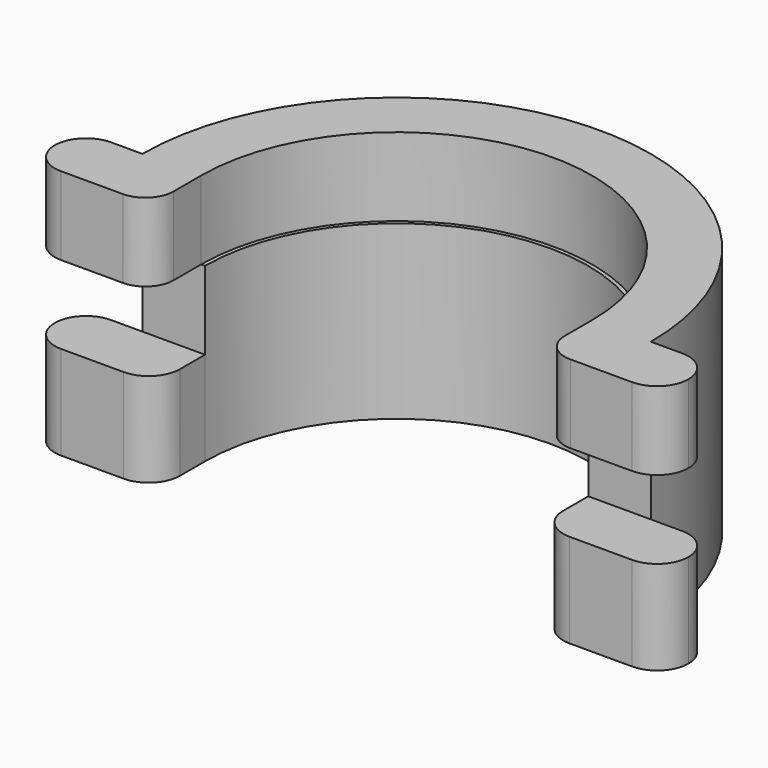
from build123d import *

# Parameters (mm, degrees)
F1_DEPTH = 27.94
F2_DEPTH = 15.24
F4_DEPTH = 12.7


with BuildPart() as f1:
    # F0 (on Top) → F1 (new body)
    with BuildSketch(Plane.XY):
        with BuildLine():
            ThreePointArc((-31.115, 0), (0, 31.115), (31.115, 0))
            Line((31.115, 0), (41.275, 0))
            ThreePointArc((41.275, 0), (0, 41.275), (-41.275, 0))
            Line((-41.275, 0), (-31.115, 0))
        make_face()
    extrude(amount=F1_DEPTH)

    # F0 (on Top) → F2 (join)
    with BuildSketch(Plane.XY):
        with BuildLine():
            ThreePointArc((-40.005, -10.16), (-40.9562693614, -5.1195336702), (-41.275, 0))
            Line((-41.275, 0), (-46.355, 0))
            ThreePointArc((-46.355, 0), (-49.9471024484, -1.4878975516), (-51.435, -5.08))
            ThreePointArc((-51.435, -5.08), (-49.9471024484, -8.6721024484), (-46.355, -10.16))
            Line((-46.355, -10.16), (-40.005, -10.16))
        make_face()
        with BuildLine():
            Line((-31.115, -5.08), (-31.115, 0))
            Line((-31.115, 0), (-41.275, 0))
            ThreePointArc((-41.275, 0), (-40.9562693614, -5.1195336702), (-40.005, -10.16))
            Line((-40.005, -10.16), (-36.195, -10.16))
            ThreePointArc((-36.195, -10.16), (-32.6028975516, -8.6721024484), (-31.115, -5.08))
        make_face()
        with BuildLine():
            Line((41.275, 0), (31.115, 0))
            Line((31.115, 0), (31.115, -5.08))
            ThreePointArc((31.115, -5.08), (32.6028975516, -8.6721024484), (36.195, -10.16))
            Line((36.195, -10.16), (40.005, -10.16))
            ThreePointArc((40.005, -10.16), (40.9562693614, -5.1195336702), (41.275, 0))
        make_face()
        with BuildLine():
            Line((46.355, 0), (41.275, 0))
            ThreePointArc((41.275, 0), (40.9562693614, -5.1195336702), (40.005, -10.16))
            Line((40.005, -10.16), (46.355, -10.16))
            ThreePointArc((46.355, -10.16), (49.9471024484, -8.6721024484), (51.435, -5.08))
            ThreePointArc((51.435, -5.08), (49.9471024484, -1.4878975516), (46.355, 0))
        make_face()
    extrude(amount=F2_DEPTH)

    # F3 (on face) → F4 (join)
    with BuildSketch(Plane.XY.offset(27.94)):
        with BuildLine():
            ThreePointArc((-40.005, -10.16), (-40.9562693614, -5.1195336702), (-41.275, 0))
            Line((-41.275, 0), (-46.355, 0))
            ThreePointArc((-46.355, 0), (-49.9471024484, -1.4878975516), (-51.435, -5.08))
            ThreePointArc((-51.435, -5.08), (-49.9471024484, -8.6721024484), (-46.355, -10.16))
            Line((-46.355, -10.16), (-40.005, -10.16))
        make_face()
        with BuildLine():
            Line((-31.75, -5.588), (-31.75, 0))
            Line((-31.75, 0), (-41.275, 0))
            ThreePointArc((-41.275, 0), (-40.9562693614, -5.1195336702), (-40.005, -10.16))
            Line((-40.005, -10.16), (-36.322, -10.16))
            ThreePointArc((-36.322, -10.16), (-33.0891077964, -8.8208922036), (-31.75, -5.588))
        make_face()
        with BuildLine():
            ThreePointArc((-31.75, 0), (0, 31.75), (31.75, 0))
            Line((31.75, 0), (41.275, 0))
            ThreePointArc((41.275, 0), (0, 41.275), (-41.275, 0))
            Line((-41.275, 0), (-31.75, 0))
        make_face()
        with BuildLine():
            Line((41.275, 0), (31.75, 0))
            Line((31.75, 0), (31.75, -5.588))
            ThreePointArc((31.75, -5.588), (33.0891077964, -8.8208922036), (36.322, -10.16))
            Line((36.322, -10.16), (40.005, -10.16))
            ThreePointArc((40.005, -10.16), (40.9562693614, -5.1195336702), (41.275, 0))
        make_face()
        with BuildLine():
            Line((46.355, 0), (41.275, 0))
            ThreePointArc((41.275, 0), (40.9562693614, -5.1195336702), (40.005, -10.16))
            Line((40.005, -10.16), (46.355, -10.16))
            ThreePointArc((46.355, -10.16), (49.9471024484, -8.6721024484), (51.435, -5.08))
            ThreePointArc((51.435, -5.08), (49.9471024484, -1.4878975516), (46.355, 0))
        make_face()
    extrude(amount=F4_DEPTH)


solid = f1.part
